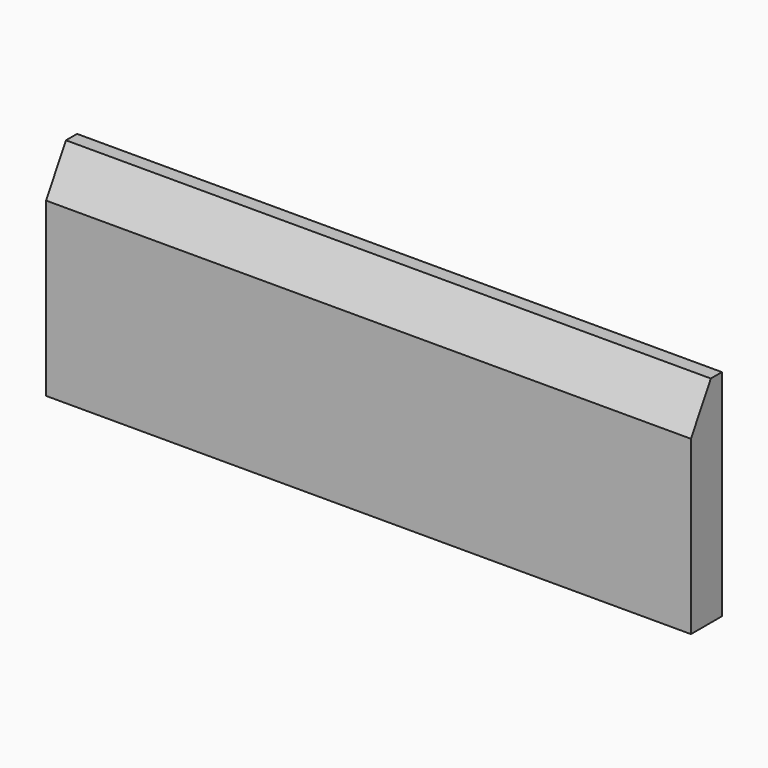
from build123d import *

# Parameters (mm, degrees)
F0_W     = 300
F0_H     = 100
F1_DEPTH = 9
F3_DEPTH = 300.001


with BuildPart() as f1:
    # F0 (on Front) → F1 (new body, symmetric)
    with BuildSketch(Plane.XZ):
        with Locations((-3.72486, -105.77762)):
            Rectangle(F0_W, F0_H)
    extrude(amount=F1_DEPTH, both=True)

    # F2 (on face) → F3 (cut, through all)
    with BuildSketch(Plane.YZ.offset(146.27514)):
        Polygon((-9, -55.77762), (-9, -75.77762), (2.547005, -55.77762), align=None)
    extrude(amount=-F3_DEPTH, mode=Mode.SUBTRACT)


solid = f1.part
